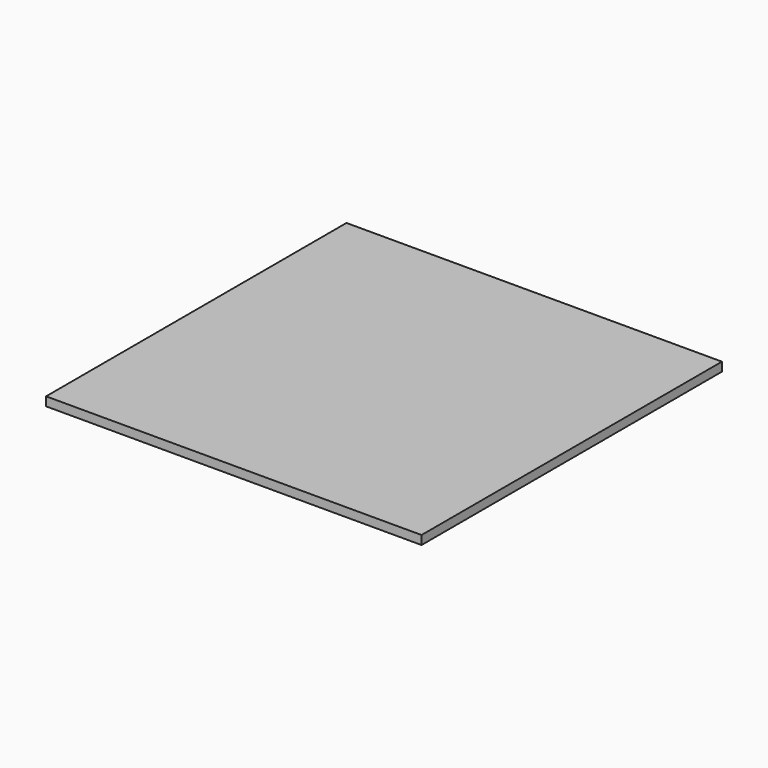
from build123d import *

# Parameters (mm, degrees)
SKETCH_W  = 170
SKETCH_H  = 170
PAD_DEPTH = 4


with BuildPart() as part:
    # Sketch → Pad (new body)
    with BuildSketch(Plane.XY):
        Rectangle(SKETCH_W, SKETCH_H)
    extrude(amount=PAD_DEPTH)


solid = part.part
